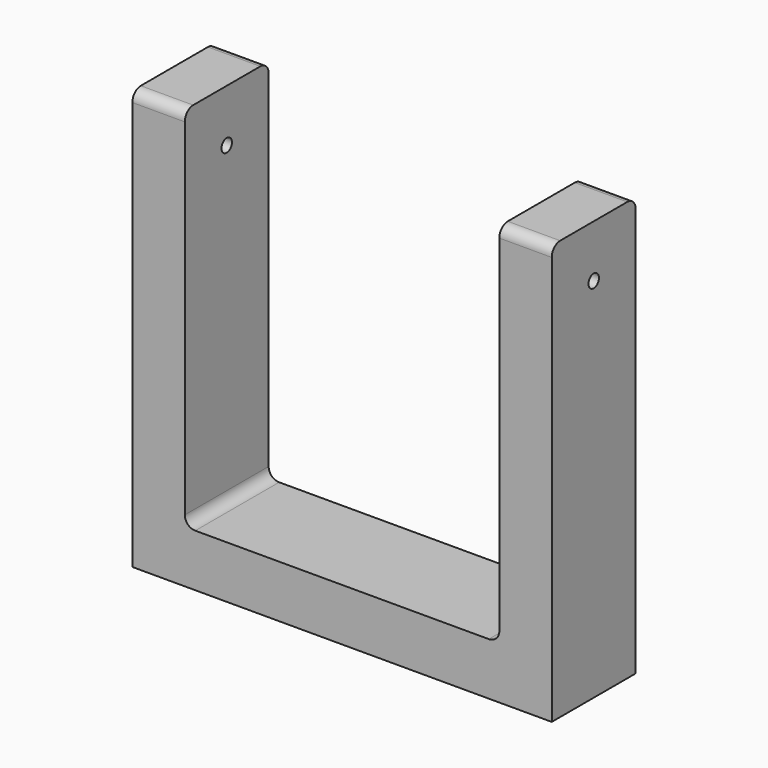
from build123d import *

# Parameters (mm, degrees)
F1_DEPTH      = 25.4
F1_DEPTH_BACK = 25.4
F2_R          = 5.08
F4_D          = 6.35


with BuildPart() as f1:
    # F0 (on Front) → F1 (new body, two sides)
    with BuildSketch(Plane.XZ) as f1_sk:
        Polygon((-76.2, 107.919905), (-101.6, 107.919905), (-101.6, -95.280095), (101.6, -95.280095), (101.6, 107.919905), (76.2, 107.919905), (76.2, -69.880095), (-76.2, -69.880095), align=None)
    extrude(amount=F1_DEPTH)
    extrude(f1_sk.sketch, amount=-F1_DEPTH_BACK)

    # F2
    f2_edges = [f1.edges().sort_by_distance(p)[0] for p in [
        (-88.9, -25.4, 107.919905),
        (-88.9, 25.4, 107.919905),
        (88.9, -25.4, 107.919905),
        (88.9, 25.4, 107.919905),
        (-76.2, 0, -69.880095),
        (76.2, 0, -69.880095),
    ]]
    fillet(f2_edges, radius=F2_R)

    # F4 (through all)
    with Locations(Plane(origin=(-101.6, 0, 0), x_dir=(0, -1, 0), z_dir=(-1, 0, 0))):
        with Locations((0, 82.519905)):
            Hole(F4_D / 2)


solid = f1.part
